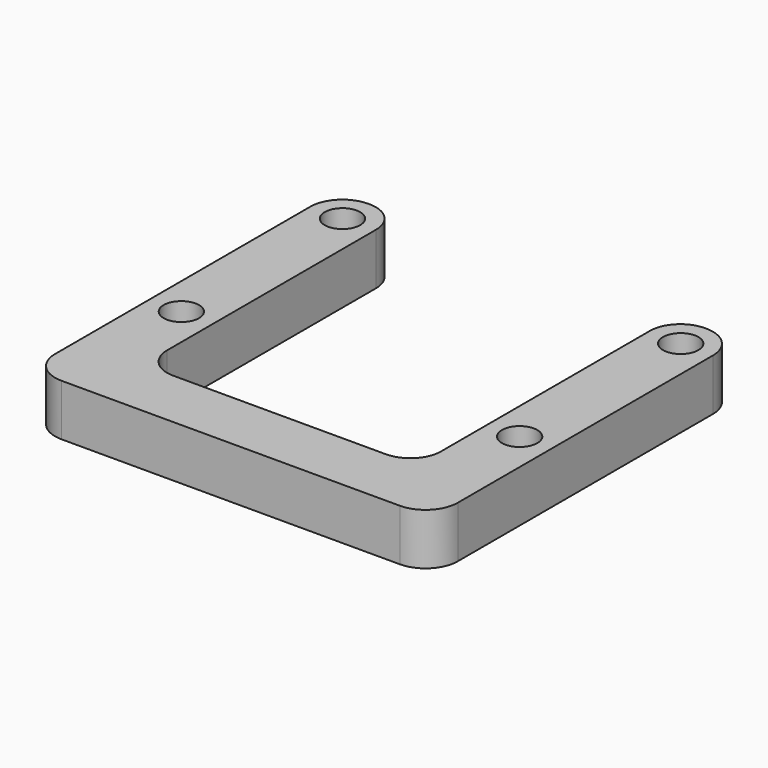
from build123d import *

# Parameters (mm, degrees)
PAD_DEPTH    = 3.2
FILLET_R     = 2
FILLET001_R  = 1.9
SKETCH001_R  = 1.1
POCKET_DEPTH = 5


with BuildPart() as part:
    # Sketch → Pad (new body)
    with BuildSketch(Plane.XY):
        Polygon((0, 0), (4, 0), (4, -20), (21, -20), (21, 0), (25, 0), (25, -23.8), (0, -23.8), align=None)
    extrude(amount=PAD_DEPTH)

    # Fillet
    fillet_edges = [part.edges().sort_by_distance(p)[0] for p in [
        (0, -23.8, 1.6),
        (25, -23.8, 1.6),
        (0, 0, 1.6),
        (25, 0, 1.6),
    ]]
    fillet(fillet_edges, radius=FILLET_R)

    # Fillet001
    fillet001_edges = [part.edges().sort_by_distance(p)[0] for p in [
        (4, 0, 1.6),
        (4, -20, 1.6),
        (21, 0, 1.6),
        (21, -20, 1.6),
    ]]
    fillet(fillet001_edges, radius=FILLET001_R)

    # Sketch001 (on Face5 of Fillet001) → Pocket (cut)
    with BuildSketch(Plane.XY.offset(3.2)):
        with Locations((2, -2)):
            Circle(SKETCH001_R)
        with Locations((2, -14.5)):
            Circle(SKETCH001_R)
        with Locations((23, -2)):
            Circle(SKETCH001_R)
        with Locations((23, -14.5)):
            Circle(SKETCH001_R)
    extrude(amount=-POCKET_DEPTH, mode=Mode.SUBTRACT)


solid = part.part
